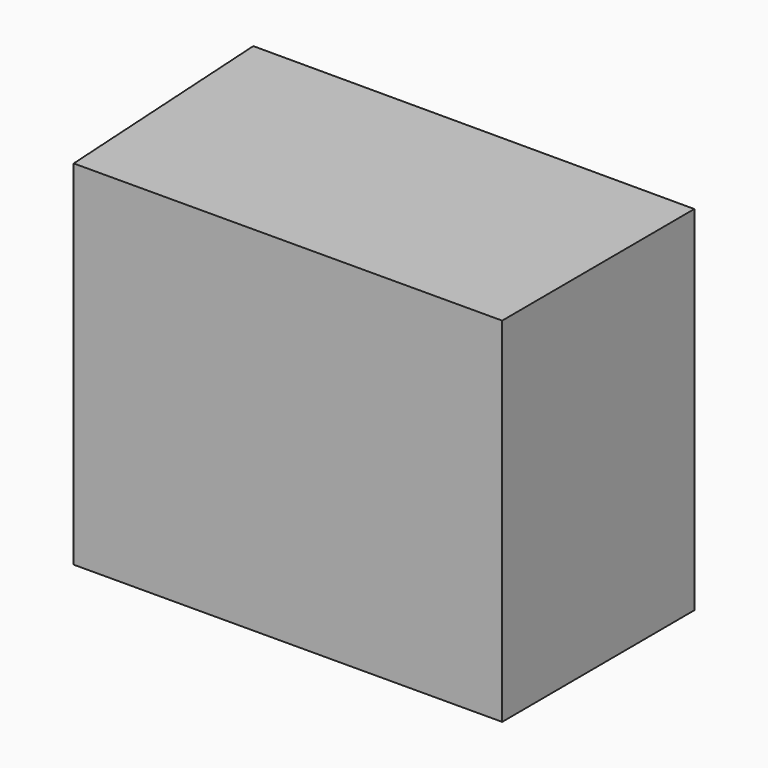
from build123d import *

# Parameters (mm, degrees)
F1_DEPTH = 101.6
F2_T     = -2.54
F3_W     = 20.0663776208
F3_H     = 57.6037857682
F4_DEPTH = 50.8


with BuildPart() as f1:
    # F0 (on Top) → F1 (new body)
    with BuildSketch(Plane.XY):
        Polygon((32.0586711168, 25.0460729003), (-94.7746559978, 25.0460729003), (-90.6164767412, -44.7059123562), (32.2867780924, -44.3016439676), align=None)
    extrude(amount=F1_DEPTH)

    # F2
    f2_openings = [f1.faces().sort_by_distance(p)[0] for p in [
        (-31.357992, 25.046073, 50.8),
    ]]
    offset(amount=F2_T, openings=f2_openings)

    # F3 (on face) → F4 (cut)
    with BuildSketch(Plane(origin=(-92.951234691, -5.5411741264, 0), x_dir=(0.0595081302, -0.9982278209, 0), z_dir=(-0.9982278209, -0.0595081302, 0))):
        with Locations((-5.7368292903, 51.2475920841)):
            Rectangle(F3_W, F3_H)
    extrude(amount=-F4_DEPTH, mode=Mode.SUBTRACT)


solid = f1.part
